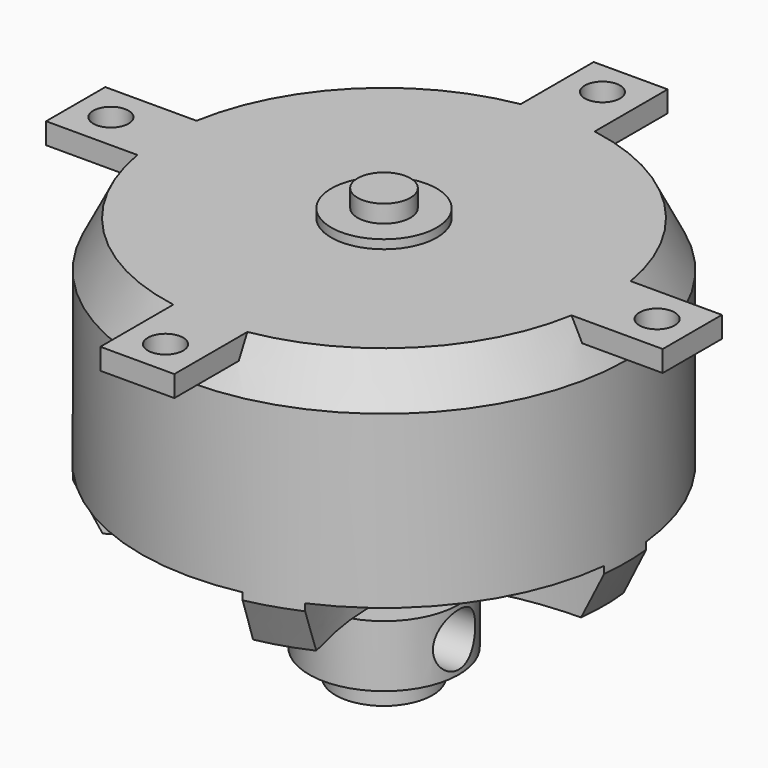
from build123d import *

# Parameters (mm, degrees)
POCKET_DEPTH            = 3
POLARPATTERN001_COUNT   = 5
SKETCH007_R             = 1.5
POCKET001_DEPTH         = 5
POCKET001_DEPTH_BACK    = 100
SKETCH008_W             = 18.264466
SKETCH008_H             = 4.2
SKETCH008_R             = 1
PAD004_DEPTH            = 1.2
POLARPATTERN002_COUNT   = 4
BODY003_PLACEMENT_ANGLE = 180


with BuildPart() as part:
    # Sketch005 → Revolution (revolve)
    with BuildSketch(Plane.YZ):
        Polygon((0, 15.3), (2.75, 15.3), (2.75, 13.78), (4.25, 13.78), (4.25, 10.28), (3, 10.28), (3, 7.65), (12.5, 7.65), (13.8, 5.05), (13.8, -5.05), (12.5, -7.65), (3, -7.65), (3, -8.15), (1.5, -8.15), (1.5, -9.15), (0, -9.15), align=None)
    revolve(axis=Axis((0, 0, 0), (0, 0, 1)))

    # Sketch006 (on Face7 of Revolution) → Pocket (cut)
    with BuildSketch(Plane(origin=(0, 0, 7.65), x_dir=(0, -1, 0), z_dir=(0, 0, 1))):
        with BuildLine():
            add(Edge.make_bspline(
                [(-9.307214, 15.452806), (0, 1.064655), (9.307214, 15.452806), (-9.307214, 15.452806)],
                knots=[0, 0, 0, 0, 1, 1, 1, 1], degree=3, weights=[1, 11.84332, 40.102275, 1]))
        make_face()
    pocket = extrude(amount=-POCKET_DEPTH, mode=Mode.SUBTRACT)

    # PolarPattern001: Pocket ×5 about axis
    polarpattern001_axis = Axis((0, 0, 7.65), (0, 0, 1))
    for i in range(1, POLARPATTERN001_COUNT):
        add(pocket.rotate(polarpattern001_axis, i * 360 / POLARPATTERN001_COUNT), mode=Mode.SUBTRACT)

    # Sketch007 → Pocket001 (cut, two sides)
    with BuildSketch(Plane.YZ) as pocket001_sk:
        with Locations((0, 12.025208)):
            Circle(SKETCH007_R)
    extrude(amount=-POCKET001_DEPTH, mode=Mode.SUBTRACT)
    extrude(pocket001_sk.sketch, amount=POCKET001_DEPTH_BACK, mode=Mode.SUBTRACT)

    # Sketch008 (on Face26 of Pocket001) → Pad004 (join)
    with BuildSketch(Plane.YX.offset(7.65)):
        with Locations((8.367767, 0)):
            Rectangle(SKETCH008_W, SKETCH008_H)
        with Locations((15.5, 0)):
            Circle(SKETCH008_R, mode=Mode.SUBTRACT)
    pad004 = extrude(amount=-PAD004_DEPTH)

    # PolarPattern002: Pad004 ×4 about axis
    polarpattern002_axis = Axis((0, 0, -7.65), (0, 0, -1))
    for i in range(1, POLARPATTERN002_COUNT):
        add(pad004.rotate(polarpattern002_axis, i * 360 / POLARPATTERN002_COUNT))


with BuildPart() as part_1:
    # Body003 placement: moved
    add(part.part.moved(Location((0, 66, 15.5))).rotate(Axis((0, 66, 15.5), (0, 1, 0)), BODY003_PLACEMENT_ANGLE))


solid = part_1.part
